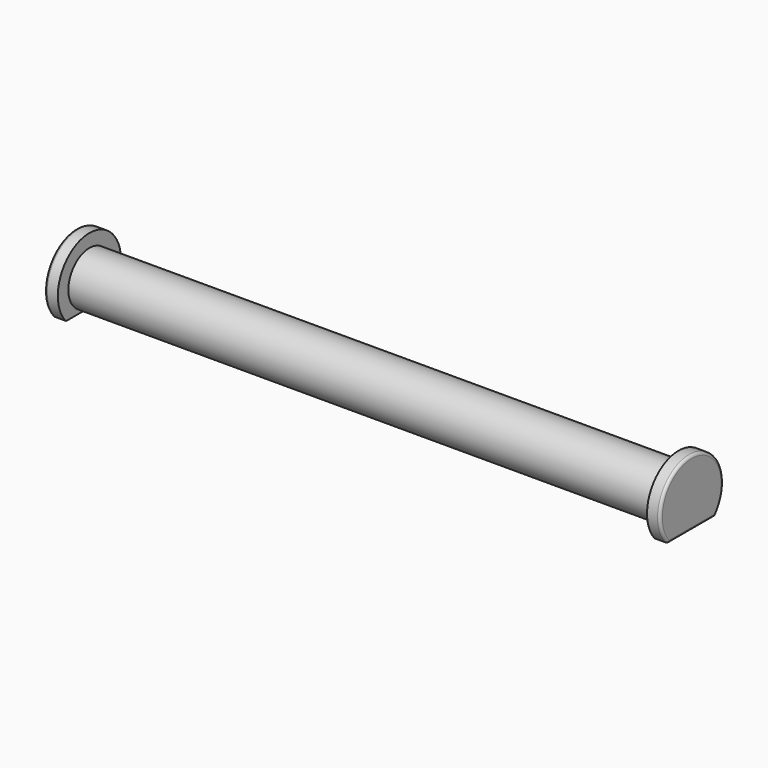
from build123d import *

# Parameters (mm, degrees)
F0_R     = 5
F1_DEPTH = 112
F2_R     = 7.5
F3_DEPTH = 2.5
F4_R     = 7.5
F5_DEPTH = 2.5
F7_DEPTH = 117.001
F8_R     = 0.5


with BuildPart() as f1:
    # F0 (on Right) → F1 (new body)
    with BuildSketch(Plane.YZ):
        Circle(F0_R)
    extrude(amount=F1_DEPTH)

    # F2 (on face) → F3 (join)
    with BuildSketch(Plane(origin=(0, 0, 0), x_dir=(0, -1, 0), z_dir=(-1, 0, 0))):
        Circle(F2_R)
    extrude(amount=F3_DEPTH)

    # F4 (on face) → F5 (join)
    with BuildSketch(Plane.YZ.offset(112)):
        Circle(F4_R)
    extrude(amount=F5_DEPTH)

    # F6 (on face) → F7 (cut, through all)
    with BuildSketch(Plane.YZ.offset(114.5)):
        with BuildLine():
            Line((5.5901699437, -5), (-5.5901699437, -5))
            ThreePointArc((-5.5901699437, -5), (0, -7.5), (5.5901699437, -5))
        make_face()
    extrude(amount=-F7_DEPTH, mode=Mode.SUBTRACT)

    # F8
    f8_edges = [f1.edges().sort_by_distance(p)[0] for p in [
        (-2.5, 0, -5),
        (-2.5, 0, 7.5),
        (114.5, 0, -5),
        (114.5, 0, 7.5),
        (113.25, -5.59017, -5),
        (113.25, 5.59017, -5),
        (-1.25, -5.59017, -5),
        (-1.25, 5.59017, -5),
    ]]
    fillet(f8_edges, radius=F8_R)


solid = f1.part
